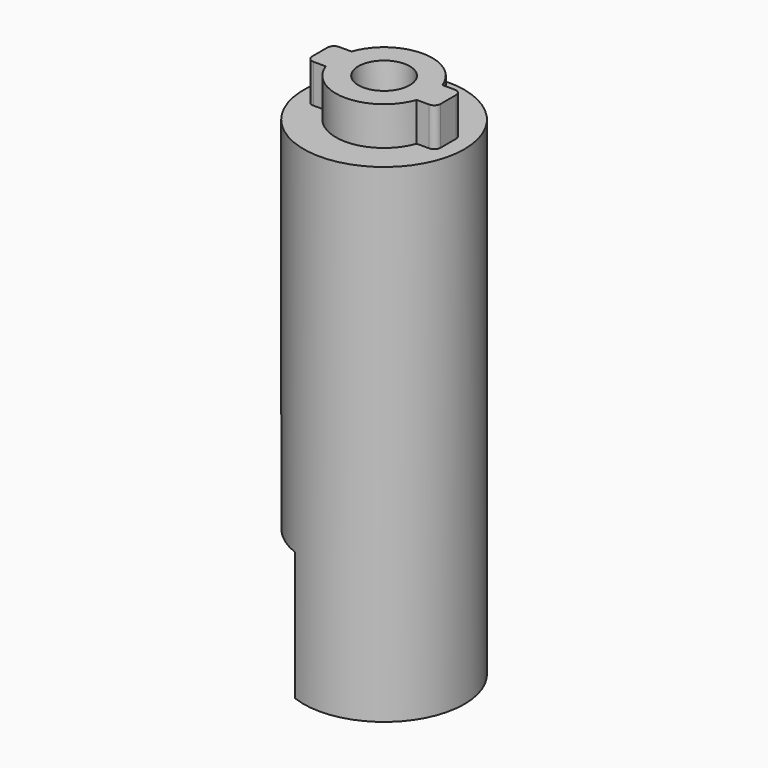
from build123d import *

# Parameters (mm, degrees)
F0_R     = 6.25
F1_DEPTH = 38
F3_DEPTH = 3
F4_R     = 2
F5_DEPTH = 15
F5_TAPER = 3
F6_W     = 8
F6_H     = 15
F7_DEPTH = 10


with BuildPart() as f1:
    # F0 (on Top) → F1 (new body)
    with BuildSketch(Plane.XY):
        Circle(F0_R)
    extrude(amount=F1_DEPTH)

    # F2 (on face) → F3 (join)
    with BuildSketch(Plane.XY.offset(38)):
        with BuildLine():
            ThreePointArc((3.5355339059, -1.25), (3.6959945987, -0.6341324202), (3.75, 0))
            ThreePointArc((3.75, 0), (3.6959945987, 0.6341324202), (3.5355339059, 1.25))
            Line((3.5355339059, 1.25), (-3.5355339059, 1.25))
            ThreePointArc((-3.5355339059, 1.25), (-3.75, 0), (-3.5355339059, -1.25))
            Line((-3.5355339059, -1.25), (3.5355339059, -1.25))
        make_face()
        with BuildLine():
            ThreePointArc((3.5355339059, 1.25), (3.6959945987, 0.6341324202), (3.75, 0))
            ThreePointArc((3.75, 0), (3.6959945987, -0.6341324202), (3.5355339059, -1.25))
            Line((3.5355339059, -1.25), (4.5, -1.25))
            ThreePointArc((4.5, -1.25), (4.8535533906, -1.1035533906), (5, -0.75))
            Line((5, -0.75), (5, 0.75))
            ThreePointArc((5, 0.75), (4.8535533906, 1.1035533906), (4.5, 1.25))
            Line((4.5, 1.25), (3.5355339059, 1.25))
        make_face()
        with BuildLine():
            Line((-3.5355339059, 1.25), (3.5355339059, 1.25))
            ThreePointArc((3.5355339059, 1.25), (0, 3.75), (-3.5355339059, 1.25))
        make_face()
        with BuildLine():
            ThreePointArc((-3.5355339059, -1.25), (0, -3.75), (3.5355339059, -1.25))
            Line((3.5355339059, -1.25), (-3.5355339059, -1.25))
        make_face()
        with BuildLine():
            ThreePointArc((-3.5355339059, -1.25), (-3.75, 0), (-3.5355339059, 1.25))
            Line((-3.5355339059, 1.25), (-4.5, 1.25))
            ThreePointArc((-4.5, 1.25), (-4.8535533906, 1.1035533906), (-5, 0.75))
            Line((-5, 0.75), (-5, -0.75))
            ThreePointArc((-5, -0.75), (-4.8535533906, -1.1035533906), (-4.5, -1.25))
            Line((-4.5, -1.25), (-3.5355339059, -1.25))
        make_face()
    extrude(amount=F3_DEPTH)

    # F4 (on face) → F5 (cut)
    with BuildSketch(Plane.XY.offset(41)):
        Circle(F4_R)
    extrude(amount=-F5_DEPTH, taper=F5_TAPER, mode=Mode.SUBTRACT)

    # F6 (on face) → F7 (cut)
    with BuildSketch(Plane(origin=(0, 0, 0), x_dir=(1, 0, 0), z_dir=(0, 0, -1))):
        with Locations((-6.25, 0)):
            Rectangle(F6_W, F6_H)
    extrude(amount=-F7_DEPTH, mode=Mode.SUBTRACT)


solid = f1.part
